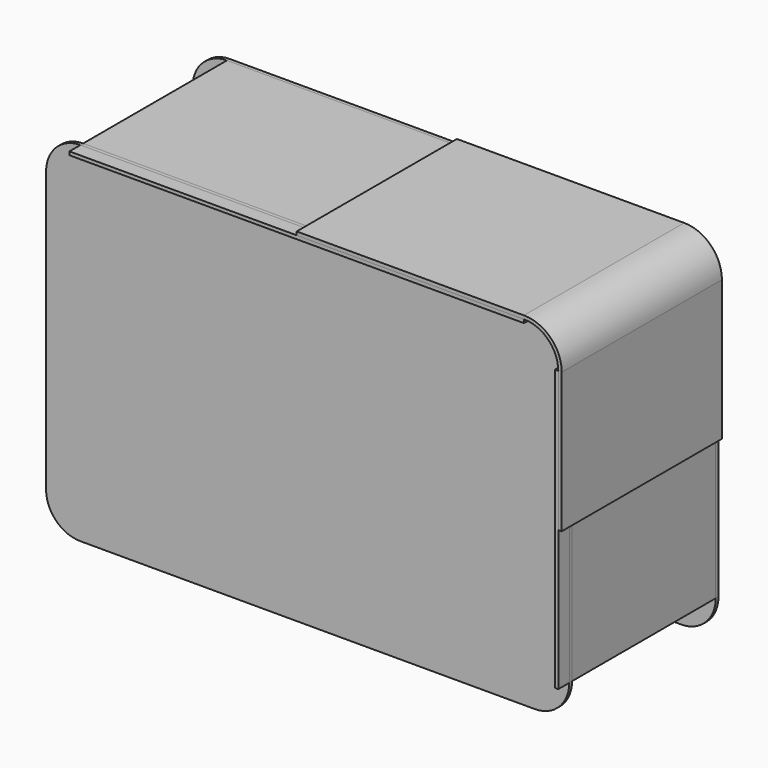
from build123d import *

# Parameters (mm, degrees)
F1_DEPTH = 350
F0_W     = 397.2
F0_H     = 6
F2_DEPTH = 314
F0_W_2   = 6
F0_H_2   = 244.8
F4_DEPTH = 24
F6_DEPTH = 6


with BuildPart() as f1:
    # F0 (on Front) → F1 (new body)
    with BuildSketch(Plane.XZ):
        with BuildLine():
            Line((0, 304.8), (397.2, 304.8))
            ThreePointArc((397.2, 304.8), (439.6264068712, 287.2264068712), (457.2, 244.8))
            Line((457.2, 244.8), (457.2, 0))
            Line((457.2, 0), (463.2, 0))
            Line((463.2, 0), (463.2, 244.8))
            ThreePointArc((463.2, 244.8), (443.8690475583, 291.4690475583), (397.2, 310.8))
            Line((397.2, 310.8), (0, 310.8))
            Line((0, 310.8), (0, 304.8))
        make_face()
    extrude(amount=F1_DEPTH)


with BuildPart() as f2:
    # F0 (on Front) → F2 (new body)
    with BuildSketch(Plane.XZ):
        with Locations((-198.6, 301.8)):
            Rectangle(F0_W, F0_H)
        with Locations((198.6, 301.8)):
            Rectangle(F0_W, F0_H)
    extrude(amount=F2_DEPTH)


with BuildPart() as f2b:
    # F0 (on Front) → F2, piece 2 (new body)
    with BuildSketch(Plane.XZ):
        with Locations((454.2, 122.4)):
            Rectangle(F0_W_2, F0_H_2)
        with Locations((454.2, -122.4)):
            Rectangle(F0_W_2, F0_H_2)
    extrude(amount=F2_DEPTH)


with BuildPart() as f2_1:
    # F3: moved
    add(f2.part.moved(Location((0, -6, 0))))


with BuildPart() as f2b_1:
    # F3: moved
    add(f2b.part.moved(Location((0, -6, 0))))


with BuildPart() as f4:
    # F0 (on Front) → F4 (new body)
    with BuildSketch(Plane.XZ):
        with Locations((198.6, 301.8)):
            Rectangle(F0_W, F0_H)
        with Locations((-198.6, 301.8)):
            Rectangle(F0_W, F0_H)
    extrude(amount=F4_DEPTH)


with BuildPart() as f4b:
    # F0 (on Front) → F4, piece 2 (new body)
    with BuildSketch(Plane.XZ):
        with Locations((454.2, 122.4)):
            Rectangle(F0_W_2, F0_H_2)
        with Locations((454.2, -122.4)):
            Rectangle(F0_W_2, F0_H_2)
    extrude(amount=F4_DEPTH)


with BuildPart() as f4b_1:
    # F5: moved
    add(f4b.part.moved(Location((0, -326, 0))))


with BuildPart() as f4_1:
    # F5: moved
    add(f4.part.moved(Location((0, -326, 0))))


with BuildPart() as f6:
    # F0 (on Front) → F6 (new body)
    with BuildSketch(Plane.XZ):
        with Locations((454.2, 122.4)):
            Rectangle(F0_W_2, F0_H_2)
        with BuildLine():
            ThreePointArc((457.2, 244.8), (439.6264068712, 287.2264068712), (397.2, 304.8))
            Line((397.2, 304.8), (397.2, 298.8))
            Line((397.2, 298.8), (0, 298.8))
            Line((0, 298.8), (0, 0))
            Line((0, 0), (451.2, 0))
            Line((451.2, 0), (451.2, 244.8))
            Line((451.2, 244.8), (457.2, 244.8))
        make_face()
        with Locations((454.2, -122.4)):
            Rectangle(F0_W_2, F0_H_2)
        with BuildLine():
            Line((0, 0), (0, 298.8))
            Line((0, 298.8), (-397.2, 298.8))
            Line((-397.2, 298.8), (-397.2, 304.8))
            ThreePointArc((-397.2, 304.8), (-439.6264068712, 287.2264068712), (-457.2, 244.8))
            Line((-457.2, 244.8), (-451.2, 244.8))
            Line((-451.2, 244.8), (-451.2, 0))
            Line((-451.2, 0), (-451.2, -244.8))
            Line((-451.2, -244.8), (-457.2, -244.8))
            ThreePointArc((-457.2, -244.8), (-439.6264068712, -287.2264068712), (-397.2, -304.8))
            Line((-397.2, -304.8), (-397.2, -298.8))
            Line((-397.2, -298.8), (0, -298.8))
            Line((0, -298.8), (397.2, -298.8))
            Line((397.2, -298.8), (397.2, -304.8))
            ThreePointArc((397.2, -304.8), (439.6264068712, -287.2264068712), (457.2, -244.8))
            Line((457.2, -244.8), (451.2, -244.8))
            Line((451.2, -244.8), (451.2, 0))
            Line((451.2, 0), (0, 0))
        make_face()
        Polygon((-451.2, 244.8), (-457.2, 244.8), (-457.2, 0), (-457.2, -244.8), (-451.2, -244.8), (-451.2, 0), align=None)
        Polygon((0, -304.8), (397.2, -304.8), (397.2, -298.8), (0, -298.8), (-397.2, -298.8), (-397.2, -304.8), align=None)
        with Locations((-198.6, 301.8)):
            Rectangle(F0_W, F0_H)
        with Locations((198.6, 301.8)):
            Rectangle(F0_W, F0_H)
    extrude(amount=F6_DEPTH)


with BuildPart() as f7_1:
    # F7: copy of F6
    add(f6.part.moved(Location((0, -320, 0))))


solid = Compound([f1.part, f2_1.part, f2b_1.part, f4b_1.part, f4_1.part, f6.part, f7_1.part])
